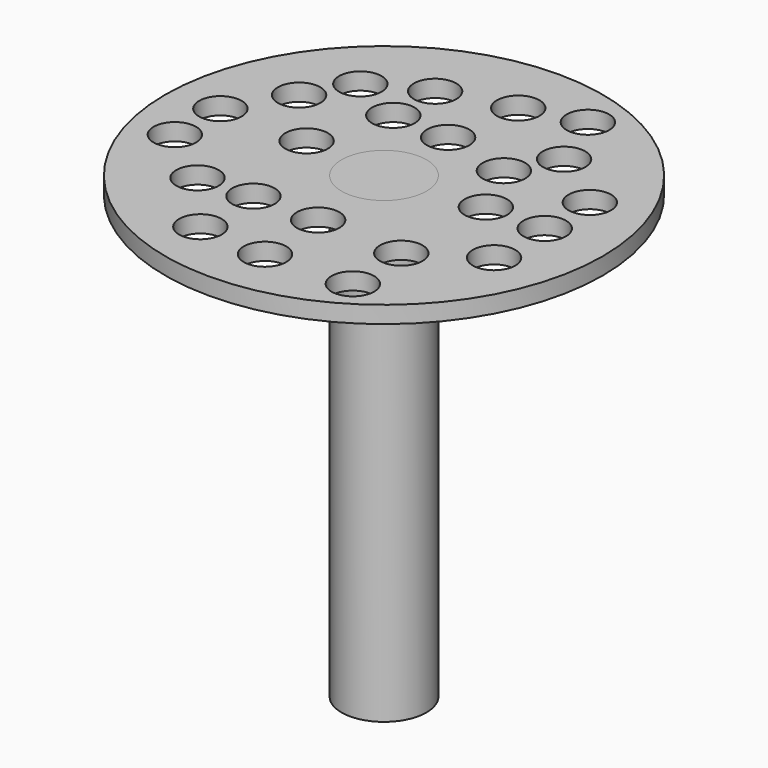
from build123d import *

# Parameters (mm, degrees)
F0_R      = 6.35
F1_DEPTH  = 63.5
F3_R      = 6.35
F4_DEPTH  = 2.54
F5_D      = 6.35
F5_DEPTH  = 63.5
F5_TIP    = 1.9077324654
F6_R      = 32.6891726937
F6_R_2    = 6.35
F7_DEPTH  = 2.54
F8_DEPTH  = 2.54
F10_D     = 6.35
F10_DEPTH = 63.5
F10_TIP   = 1.9077324654


with BuildPart() as f1:
    # F0 (on Top) → F1 (new body)
    with BuildSketch(Plane.XY):
        with Locations((-23.0151098222, -49.1751506925)):
            Circle(F0_R)
    extrude(amount=F1_DEPTH)

    # F3 (on face) → F4 (join)
    with BuildSketch(Plane.XY.offset(63.5)):
        with Locations((-23.0151098222, -49.1751506925)):
            Circle(F3_R)
    extrude(amount=F4_DEPTH)

    # F5 (one way)
    with BuildSketch(Plane.XY.offset(63.5)):
        with Locations((-23.0151098222, -49.1751506925)):
            Circle(F5_D / 2)
    extrude(amount=-F5_DEPTH, mode=Mode.SUBTRACT)
    with Locations(Plane.XY.offset(63.5)):
        with Locations((-23.0151098222, -49.1751506925)):
            with Locations((0, 0, -(F5_DEPTH + F5_TIP / 2))):  # 118° drill point
                Cone(0, F5_D / 2, F5_TIP, mode=Mode.SUBTRACT)


with BuildPart() as f7:
    # F6 (on face) → F7 (new body)
    with BuildSketch(Plane.XY.offset(66.04)):
        with Locations((-23.0151098222, -49.1751506925)):
            Circle(F6_R)
        with Locations((-23.0151098222, -49.1751506925)):
            Circle(F6_R_2, mode=Mode.SUBTRACT)
    extrude(amount=F7_DEPTH)

    # F10
    with Locations(Plane.XY.offset(68.58)):
        with Locations((-48.4613217413, -47.9233302176), (-39.6160855889, -32.8408963978), (-21.4212629944, -26.0991491377), (-9.1731837019, -32.8408963978), (0, -47.9233302176), (-9.1731837019, -63.25045228), (-21.4212629944, -73.3919888735), (-39.6160855889, -63.25045228), (-48.5132150352, -56.3649684191), (-35.5243645608, -47.995198518), (-31.6485017538, -36.644462496), (-43.435908854, -39.503339678), (-31.6485017538, -28.835432604), (-23.1807958335, -36.9940586388), (-12.8374230117, -39.503339678), (-12.8374230117, -23.817371577), (0, -39.503339678), (-8.7457885966, -47.995198518), (0, -57.3833547533), (-8.7457885966, -72.8299245238), (-21.9774190336, -62.7708360553), (-31.6485017538, -62.7708360553), (-31.6485017538, -72.6809054613)):
            Hole(F10_D / 2, depth=F10_DEPTH)
            with Locations((0, 0, -(F10_DEPTH + F10_TIP / 2))):  # 118° drill point
                Cone(0, F10_D / 2, F10_TIP, mode=Mode.SUBTRACT)


with BuildPart() as f8:
    # F8 (new): a face of the model
    f8_faces = [f1.part.faces().sort_by_distance(p)[0] for p in [
        (-23.0151098222, -49.1751506925, 66.04),
    ]]
    extrude(f8_faces, amount=F8_DEPTH)


solid = Compound([f1.part, f7.part, f8.part])
